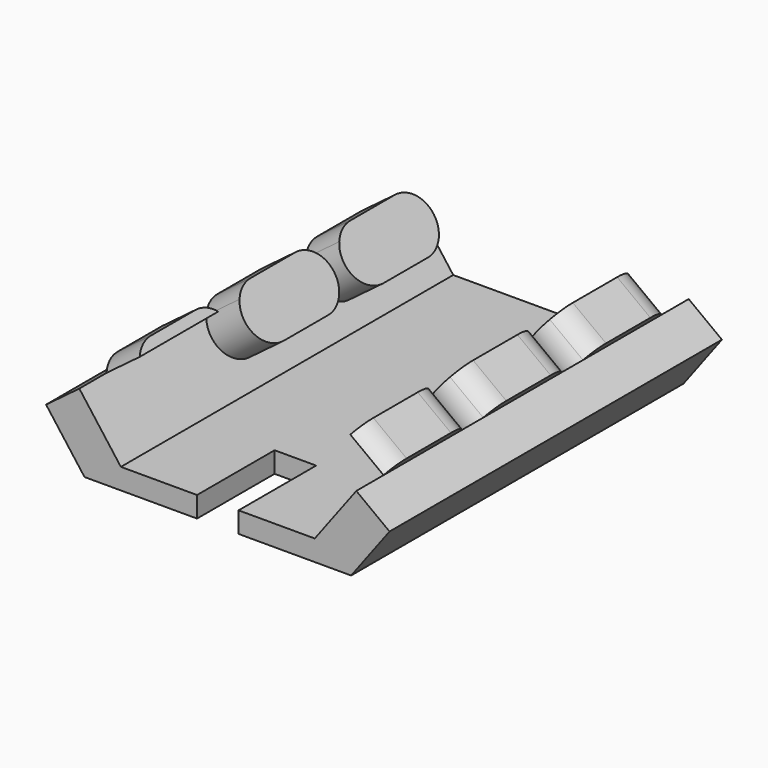
from build123d import *

# Parameters (mm, degrees)
F1_DEPTH = 30
F2_W     = 3
F2_H     = 7
F3_DEPTH = 25.4
F5_DEPTH = 3


with BuildPart() as f1:
    # F0 (on Front) → F1 (new body)
    with BuildSketch(Plane.XZ):
        Polygon((-12.4, 3.7), (-9.625, 0), (9.625, 0), (12.4, 3.7), (10, 5.5), (7, 1.5), (-7, 1.5), (-10, 5.5), align=None)
    extrude(amount=F1_DEPTH)

    # F2 (on face) → F3 (cut)
    with BuildSketch(Plane.XY.offset(1.5)):
        with Locations((0, -26.5)):
            Rectangle(F2_W, F2_H)
    extrude(amount=-F3_DEPTH, mode=Mode.SUBTRACT)

    # F4 (on face) → F5 (join)
    with BuildSketch(Plane(origin=(-3.76, 0, -2.82), x_dir=(0, 1, 0), z_dir=(0.8, 0, 0.6))):
        with BuildLine():
            ThreePointArc((-8, 11.1230850667), (-8.8503440872, 10.9333101724), (-9.5393142152, 10.4))
            Line((-9.5393142152, 10.4), (-2.4606857848, 10.4))
            ThreePointArc((-2.4606857848, 10.4), (-3.1496559128, 10.9333101724), (-4, 11.1230850667))
            Line((-4, 11.1230850667), (-8, 11.1230850667))
        make_face()
        with BuildLine():
            Line((-2.4606857848, 10.4), (-9.5393142152, 10.4))
            ThreePointArc((-9.5393142152, 10.4), (-9.8102251057, 8.2727409795), (-8, 7.1230850667))
            Line((-8, 7.1230850667), (-4, 7.1230850667))
            ThreePointArc((-4, 7.1230850667), (-2.1897748943, 8.2727409795), (-2.4606857848, 10.4))
        make_face()
        with BuildLine():
            ThreePointArc((-17, 11.1230850667), (-17.8503440872, 10.9333101724), (-18.5393142152, 10.4))
            Line((-18.5393142152, 10.4), (-11.4606857848, 10.4))
            ThreePointArc((-11.4606857848, 10.4), (-12.1496559128, 10.9333101724), (-13, 11.1230850667))
            Line((-13, 11.1230850667), (-17, 11.1230850667))
        make_face()
        with BuildLine():
            Line((-11.4606857848, 10.4), (-18.5393142152, 10.4))
            ThreePointArc((-18.5393142152, 10.4), (-18.8102251057, 8.2727409795), (-17, 7.1230850667))
            Line((-17, 7.1230850667), (-13, 7.1230850667))
            ThreePointArc((-13, 7.1230850667), (-11.1897748943, 8.2727409795), (-11.4606857848, 10.4))
        make_face()
        with BuildLine():
            Line((-22, 11.1230850667), (-26, 11.1230850667))
            ThreePointArc((-26, 11.1230850667), (-26.8503440872, 10.9333101724), (-27.5393142152, 10.4))
            Line((-27.5393142152, 10.4), (-20.4606857848, 10.4))
            ThreePointArc((-20.4606857848, 10.4), (-21.1496559128, 10.9333101724), (-22, 11.1230850667))
        make_face()
    extrude(amount=F5_DEPTH)

    # F6: F1 across plane


with BuildPart() as f1_1:
    add(f1.part)
    add(f1.part.mirror(Plane.YZ))


solid = f1_1.part
